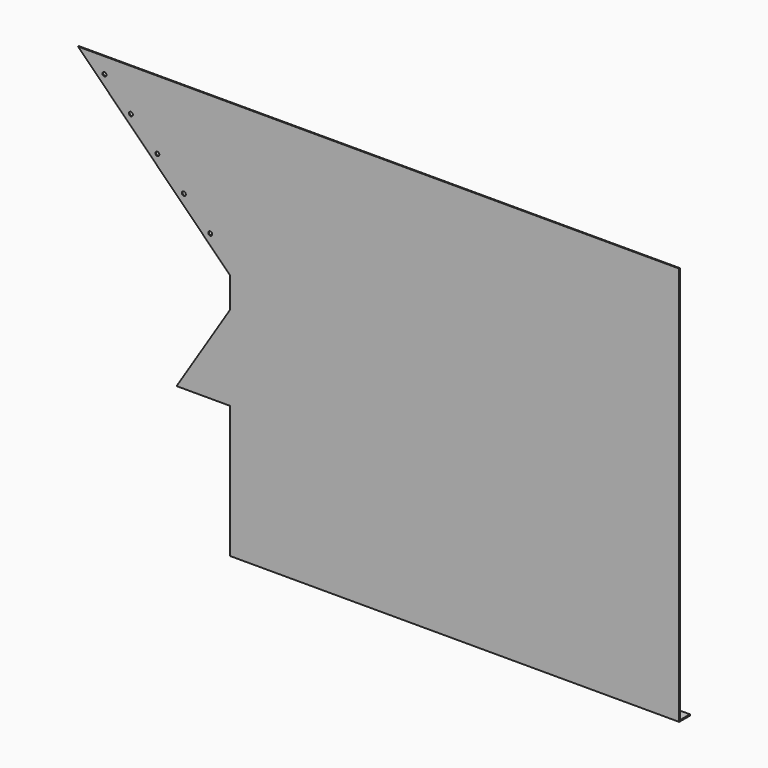
from build123d import *

# Parameters (mm, degrees)
F0_R     = 8
F1_DEPTH = 4
F2_W     = 1800
F2_H     = 5
F3_DEPTH = 50
F4_R     = 8
F5_DEPTH = 25


with BuildPart() as f1:
    # F0 (on Front) → F1 (new body)
    with BuildSketch(Plane.XZ):
        Polygon((-1800, 0), (0, 0), (0, 1600), (-2410, 1600), (-1800, 990), (-1800, 870), (-2015, 530), (-1800, 530), align=None)
        with Locations((-1880, 1112.426407)):
            Circle(F0_R, mode=Mode.SUBTRACT)
        with Locations((-1986.066017, 1218.492424)):
            Circle(F0_R, mode=Mode.SUBTRACT)
        with Locations((-2092.132034, 1324.558441)):
            Circle(F0_R, mode=Mode.SUBTRACT)
        with Locations((-2198.198052, 1430.624458)):
            Circle(F0_R, mode=Mode.SUBTRACT)
        with Locations((-2304.264069, 1536.690476)):
            Circle(F0_R, mode=Mode.SUBTRACT)
    extrude(amount=F1_DEPTH)

    # F2 (on face) → F3 (join)
    with BuildSketch(Plane(origin=(0, 0, 0), x_dir=(-1, 0, 0), z_dir=(0, 1, 0))):
        with Locations((900, 2.5)):
            Rectangle(F2_W, F2_H)
    extrude(amount=F3_DEPTH)

    # F4 (on face) → F5 (cut)
    with BuildSketch(Plane.XY.offset(5)):
        with Locations((-50, 25)):
            Circle(F4_R)
        with Locations((-550, 25)):
            Circle(F4_R)
        with Locations((-1050, 25)):
            Circle(F4_R)
        with Locations((-1550, 25)):
            Circle(F4_R)
        with Locations((-1750, 25)):
            Circle(F4_R)
    extrude(amount=-F5_DEPTH, mode=Mode.SUBTRACT)


solid = f1.part
